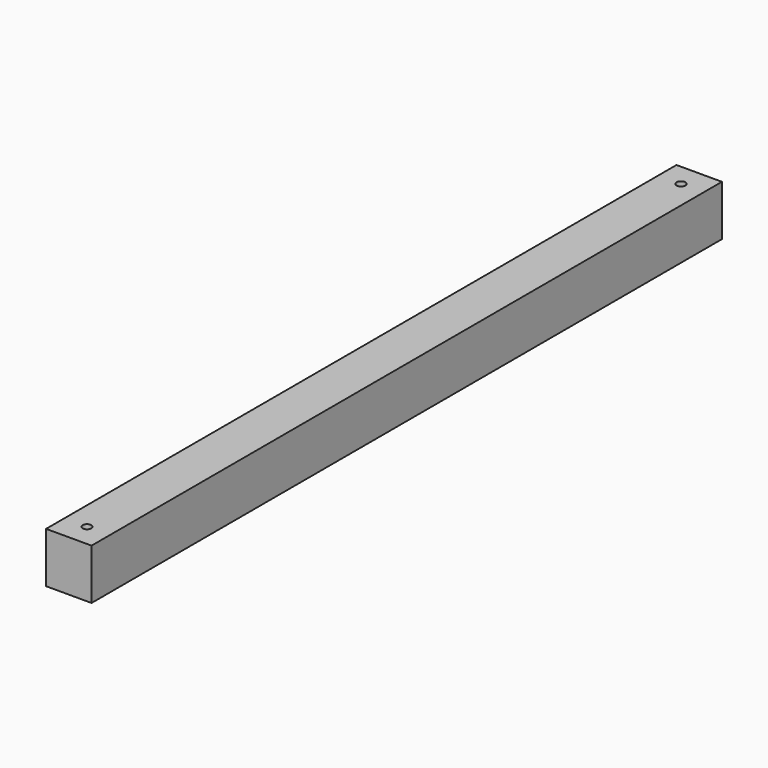
from build123d import *

# Parameters (mm, degrees)
F0_W     = 57.15
F0_H     = 63.5
F1_DEPTH = 990.6
F3_D     = 11.1125


with BuildPart() as f1:
    # F0 (on Front) → F1 (new body)
    with BuildSketch(Plane.XZ):
        with Locations((28.575, -31.75)):
            Rectangle(F0_W, F0_H)
    extrude(amount=-F1_DEPTH)

    # F3 (through all)
    with Locations(Plane.XY):
        with Locations((28.575, 962.025), (28.575, 28.575)):
            Hole(F3_D / 2)


solid = f1.part
